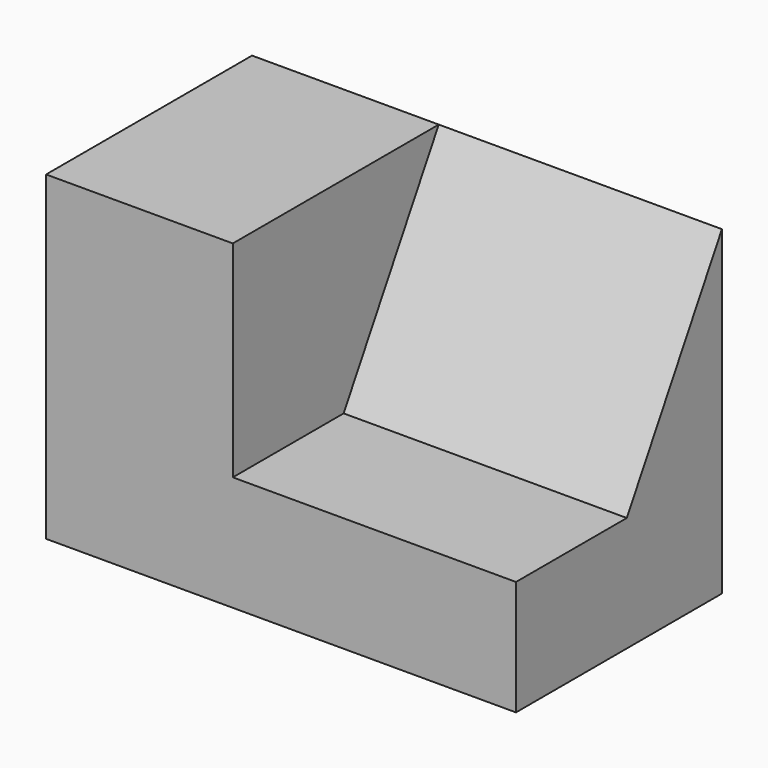
from build123d import *

# Parameters (mm, degrees)
F0_W     = 91.270662
F0_H     = 62.30978
F1_DEPTH = 50
F3_DEPTH = 55


with BuildPart() as f1:
    # F0 (on Front) → F1 (new body)
    with BuildSketch(Plane.XZ):
        Rectangle(F0_W, F0_H)
    extrude(amount=-F1_DEPTH)

    # F2 (on face) → F3 (cut)
    with BuildSketch(Plane.YZ.offset(45.635331)):
        Polygon((0, 31.15489), (0, -8.84511), (26.905989, -8.84511), (50, 31.15489), align=None)
    extrude(amount=-F3_DEPTH, mode=Mode.SUBTRACT)


solid = f1.part
